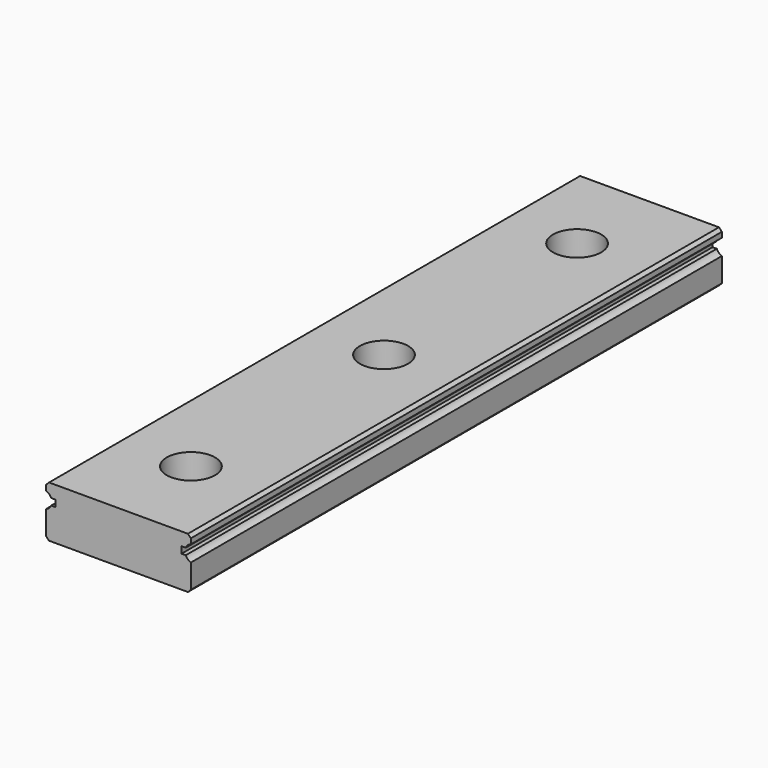
from build123d import *

# Parameters (mm, degrees)
F4_DEPTH       = 110
F6_D           = 4.5
F6_CBORE_D     = 8
F6_CBORE_DEPTH = 4.5


with BuildPart() as f4:
    # F3 (on Front) → F4 (new body)
    with BuildSketch(Plane.XZ):
        with BuildLine():
            Line((-11.5050252532, -4.25), (0, -4.25))
            Line((0, -4.25), (11.5050252532, -4.25))
            Line((11.5050252532, -4.25), (12, -3.7550252532))
            Line((12, -3.7550252532), (12, 0.2201151366))
            ThreePointArc((12, 0.2201151366), (11.4909752969, 0.5184521405), (11.150060681, 1))
            Line((11.150060681, 1), (10.45, 1))
            Line((10.45, 1), (10.45, 2.1))
            Line((10.45, 2.1), (11.150060681, 2.1))
            ThreePointArc((11.150060681, 2.1), (11.4909752969, 2.5815478595), (12, 2.8798848634))
            Line((12, 2.8798848634), (12, 3.7550252532))
            Line((12, 3.7550252532), (11.5050252532, 4.25))
            Line((11.5050252532, 4.25), (0, 4.25))
            Line((0, 4.25), (-11.5050252532, 4.25))
            Line((-11.5050252532, 4.25), (-12, 3.7550252532))
            Line((-12, 3.7550252532), (-12, 2.8798848634))
            ThreePointArc((-12, 2.8798848634), (-11.4909752969, 2.5815478595), (-11.150060681, 2.1))
            Line((-11.150060681, 2.1), (-10.45, 2.1))
            Line((-10.45, 2.1), (-10.45, 1))
            Line((-10.45, 1), (-11.150060681, 1))
            ThreePointArc((-11.150060681, 1), (-11.4909752969, 0.5184521405), (-12, 0.2201151366))
            Line((-12, 0.2201151366), (-12, -3.7550252532))
            Line((-12, -3.7550252532), (-11.5050252532, -4.25))
        make_face()
    extrude(amount=F4_DEPTH)

    # F6 (through all)
    with Locations(Plane.XY.offset(4.25)):
        with Locations((0, -95), (0, -335), (0, -15), (0, -455), (0, -295), (0, -495), (0, -175), (0, -135), (0, -255), (0, -415), (0, -215), (0, -615), (0, -375), (0, -575), (0, -535), (0, -55), (0, -1535), (0, -1055), (0, -1375), (0, -1615), (0, -1215), (0, -775), (0, -1175), (0, -1455), (0, -1335), (0, -1495), (0, -1295), (0, -1255), (0, -975), (0, -1015), (0, -815), (0, -935), (0, -695), (0, -855), (0, -1135), (0, -895), (0, -735), (0, -1575), (0, -1095), (0, -1415), (0, -1655), (0, -655), (0, -1895), (0, -1775), (0, -1695), (0, -1975), (0, -1815), (0, -1935), (0, -1735), (0, -1855)):
            CounterBoreHole(F6_D / 2, F6_CBORE_D / 2, F6_CBORE_DEPTH)


solid = f4.part
